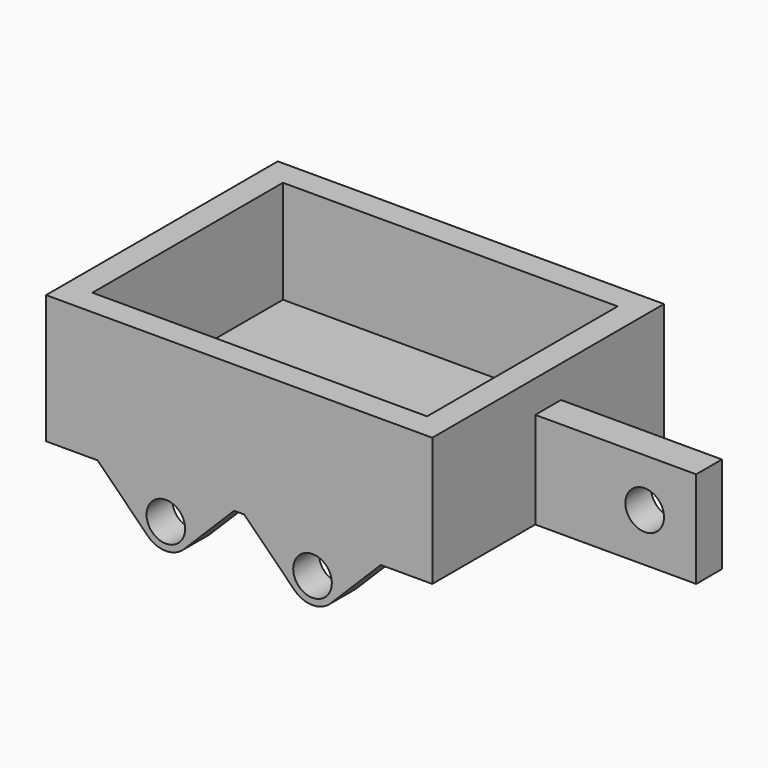
from build123d import *

# Parameters (mm, degrees)
F0_W      = 76.2
F0_H      = 57.15
F1_DEPTH  = 25.4
F2_T      = -5.08
F4_DEPTH  = 6.35
F5_R      = 5.08
F8_DEPTH  = 6.35
F9_D      = 7.62
F10_R     = 5.08
F11_W     = 6.35
F11_H     = 19.05
F12_DEPTH = 31.75
F14_D     = 7.62


with BuildPart() as f1:
    # F0 (on Top) → F1 (new body)
    with BuildSketch(Plane.XY):
        Rectangle(F0_W, F0_H)
    extrude(amount=F1_DEPTH)

    # F2
    f2_openings = [f1.faces().sort_by_distance(p)[0] for p in [
        (0, 0, 25.4),
    ]]
    offset(amount=F2_T, openings=f2_openings)

    # F3 (on face) → F4 (join)
    with BuildSketch(Plane.XZ.offset(28.575)):
        Polygon((-0.9992316368, 0), (-27.94, 0), (-14.4696158184, -13.4703841816), align=None)
        Polygon((27.94, 0), (0.9992316368, 0), (14.4696158184, -13.4703841816), align=None)
    extrude(amount=-F4_DEPTH)

    # F5
    f5_edges = [f1.edges().sort_by_distance(p)[0] for p in [
        (-14.469616, -25.4, -13.470384),
        (14.469616, -25.4, -13.470384),
    ]]
    fillet(f5_edges, radius=F5_R)

    # F7 (on face) → F8 (join)
    with BuildSketch(Plane(origin=(0, 28.575, 0), x_dir=(-1, 0, 0), z_dir=(0, 1, 0))):
        Polygon((-0.9992316368, 0), (-27.94, 0), (-14.4696158184, -13.4703841816), align=None)
        Polygon((27.94, 0), (0.9992316368, 0), (14.4696158184, -13.4703841816), align=None)
    extrude(amount=-F8_DEPTH)

    # F9 (through all)
    with Locations(Plane.XZ.offset(28.575)):
        with Locations((-14.4696158184, -6.2861792847), (14.4696158184, -6.2861792847)):
            Hole(F9_D / 2)

    # F10
    f10_edges = [f1.edges().sort_by_distance(p)[0] for p in [
        (14.469616, 25.4, -13.470384),
        (-14.469616, 25.4, -13.470384),
    ]]
    fillet(f10_edges, radius=F10_R)

    # F11 (on face) → F12 (join)
    with BuildSketch(Plane.YZ.offset(38.1)):
        with Locations((0, 9.525)):
            Rectangle(F11_W, F11_H)
    extrude(amount=F12_DEPTH)

    # F14 (through all)
    with Locations(Plane(origin=(0, 3.175, 0), x_dir=(-1, 0, 0), z_dir=(0, 1, 0))):
        with Locations((-59.69, 9.525)):
            Hole(F14_D / 2)


solid = f1.part
